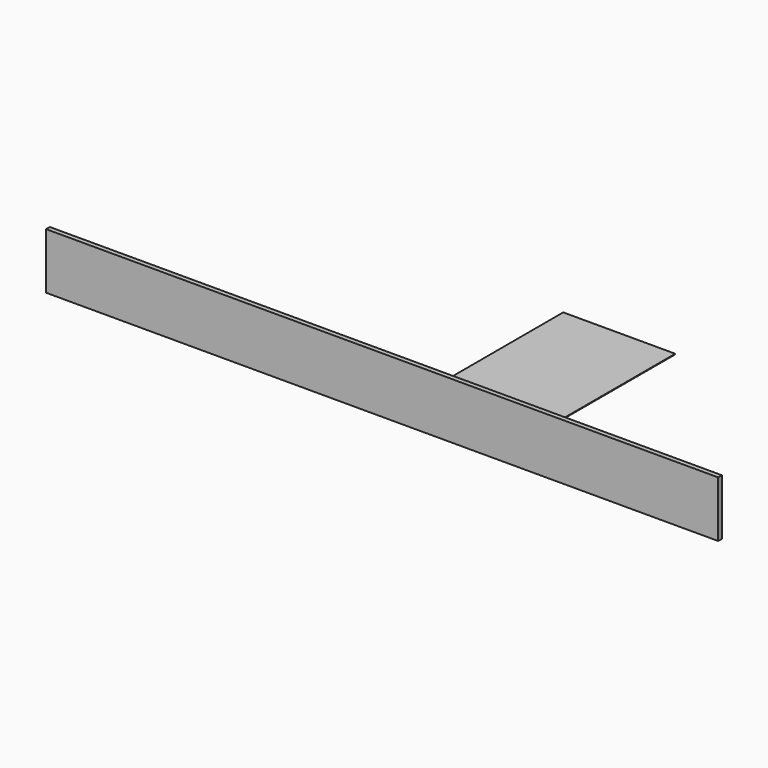
from build123d import *

# Parameters (mm, degrees)
F0_W     = 25.4
F0_H     = 304.8
F1_DEPTH = 1828.8
F2_W     = 609.6
F2_H     = 1206.5
F3_DEPTH = 3.175


with BuildPart() as f1:
    # F0 (on Right) → F1 (new body, symmetric)
    with BuildSketch(Plane.YZ):
        Rectangle(F0_W, F0_H)
    extrude(amount=F1_DEPTH, both=True)


with BuildPart() as f3:
    # F2 (on face) → F3 (new body)
    with BuildSketch(Plane(origin=(0, 0, -152.4), x_dir=(1, 0, 0), z_dir=(0, 0, -1))):
        with Locations((304.8, -615.95)):
            Rectangle(F2_W, F2_H)
    extrude(amount=F3_DEPTH)


solid = Compound([f1.part, f3.part])
